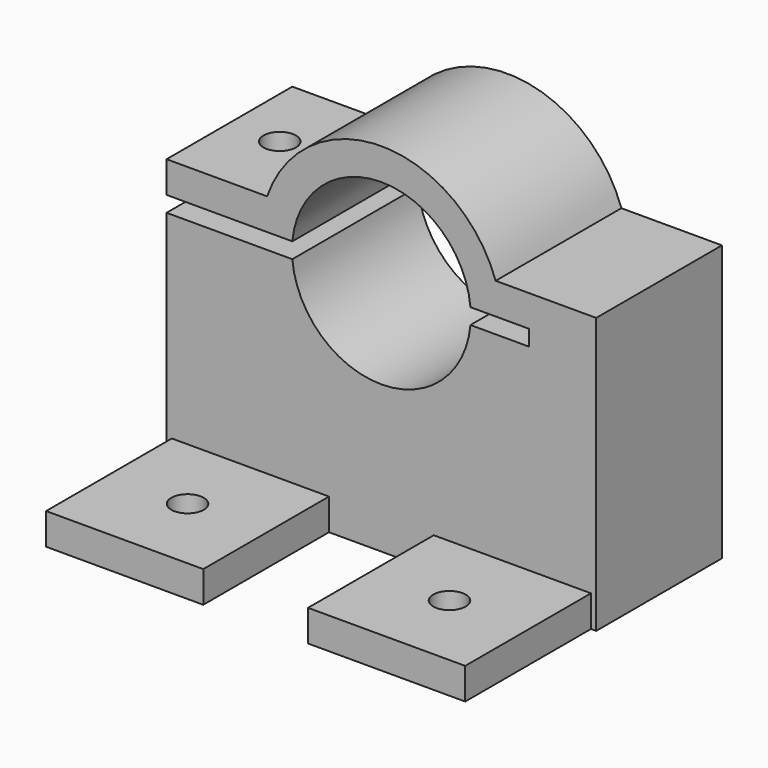
from build123d import *

# Parameters (mm, degrees)
F1_DEPTH       = 15
F3_D           = 3.1
F3_DEPTH       = 15
F3_TIP         = 0.9313339595
F4_W           = 15
F4_H           = 3
F5_DEPTH       = 15
F8_D           = 3.1
F8_DEPTH       = 3
F8_TIP         = 0.9313339595
F8_ON_F7_D     = 3.1
F8_ON_F7_DEPTH = 3
F8_ON_F7_TIP   = 0.9313339595


with BuildPart() as f1:
    # F0 (on Front) → F1 (new body)
    with BuildSketch(Plane.XZ):
        with BuildLine():
            Line((-7.4164065372, 11.0490259535), (-19.4164065372, 11.0490259535))
            Line((-19.4164065372, 11.0490259535), (-19.4164065372, 8.0490259535))
            Line((-19.4164065372, 8.0490259535), (-19.4164065372, -10.7509740465))
            Line((-19.4164065372, -10.7509740465), (21.5835934628, -10.7509740465))
            Line((21.5835934628, -10.7509740465), (21.5835934628, 8.0490259535))
            Line((21.5835934628, 8.0490259535), (21.5835934628, 15.5490259535))
            Line((21.5835934628, 15.5490259535), (11.9898709467, 15.5490259535))
            ThreePointArc((11.9898709467, 15.5490259535), (1.0835934628, 23.3204583115), (-9.8226840211, 15.5490259535))
            Line((-9.8226840211, 15.5490259535), (-19.4164065372, 15.5490259535))
            Line((-19.4164065372, 15.5490259535), (-19.4164065372, 12.5490259535))
            Line((-19.4164065372, 12.5490259535), (-7.4164065372, 12.5490259535))
            ThreePointArc((-7.4164065372, 12.5490259535), (1.0835934628, 20.29968098), (9.5835934628, 12.5490259535))
            Line((9.5835934628, 12.5490259535), (15.1835934628, 12.5490259535))
            Line((15.1835934628, 12.5490259535), (15.1835934628, 11.0490259535))
            Line((15.1835934628, 11.0490259535), (12.5835934628, 11.0490259535))
            Line((12.5835934628, 11.0490259535), (9.5835934628, 11.0490259535))
            ThreePointArc((9.5835934628, 11.0490259535), (1.0835934628, 3.294835898), (-7.4164065372, 11.0490259535))
        make_face()
    extrude(amount=F1_DEPTH)

    # F3
    with Locations(Plane.XY.offset(15.5490259535)):
        with Locations((-14.6195452792, -7.5)):
            Hole(F3_D / 2, depth=F3_DEPTH)
            with Locations((0, 0, -(F3_DEPTH + F3_TIP / 2))):  # 118° drill point
                Cone(0, F3_D / 2, F3_TIP, mode=Mode.SUBTRACT)

    # F4 (on face) → F5 (join)
    with BuildSketch(Plane.XZ.offset(15)):
        with Locations((13.5835934628, -9.2509740465)):
            Rectangle(F4_W, F4_H)
        with Locations((-11.4164065372, -9.2509740465)):
            Rectangle(F4_W, F4_H)
    extrude(amount=F5_DEPTH)

    # F8
    with Locations(Plane.XY.offset(-7.7509740465)):
        with Locations((-11.4164065372, -22.5)):
            Hole(F8_D / 2, depth=F8_DEPTH)
            with Locations((0, 0, -(F8_DEPTH + F8_TIP / 2))):  # 118° drill point
                Cone(0, F8_D / 2, F8_TIP, mode=Mode.SUBTRACT)

    # F8 on F7
    with Locations(Plane.XY.offset(-7.7509740465)):
        with Locations((13.5835934628, -22.5)):
            Hole(F8_ON_F7_D / 2, depth=F8_ON_F7_DEPTH)
            with Locations((0, 0, -(F8_ON_F7_DEPTH + F8_ON_F7_TIP / 2))):  # 118° drill point
                Cone(0, F8_ON_F7_D / 2, F8_ON_F7_TIP, mode=Mode.SUBTRACT)


solid = f1.part
